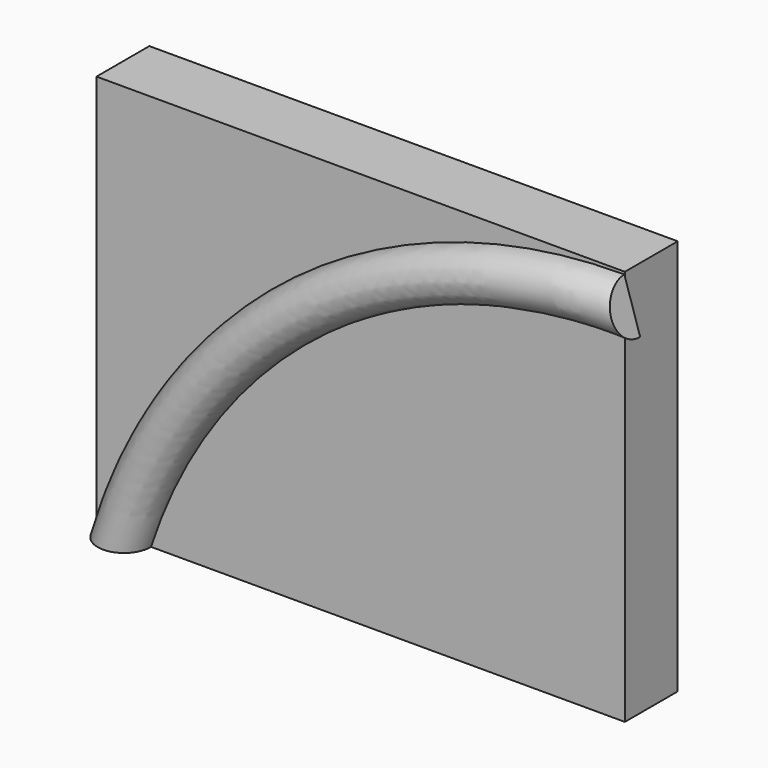
from build123d import *

# Parameters (mm, degrees)
F3_DEPTH = 12.7


with BuildPart() as f2:
    # F2: sweep along a path in F0
    with BuildLine(Plane.XZ) as f2_path:
        ThreePointArc((101.6, 76.2), (38.1, 55.033333), (0, 0))
    # F1 (on Top) → F2 (sweep)
    with BuildSketch(Plane.XY):
        with BuildLine():
            Line((10.480455, -12.696133), (0.323626, -12.949957))
            ThreePointArc((0.323626, -12.949957), (5.528952, -17.901459), (10.480455, -12.696133))
        make_face()
    sweep(path=f2_path.line)

    # F0 (on Front) → F3 (join)
    with BuildSketch(Plane.XZ):
        with BuildLine():
            ThreePointArc((101.6, 76.2), (38.1, 55.033333), (0, 0))
            Line((0, 0), (101.6, 0))
            Line((101.6, 0), (101.6, 76.2))
        make_face()
        with BuildLine():
            Line((0, 76.2), (0, 0))
            ThreePointArc((0, 0), (38.1, 55.033333), (101.6, 76.2))
            Line((101.6, 76.2), (0, 76.2))
        make_face()
    extrude(amount=F3_DEPTH)


solid = f2.part
